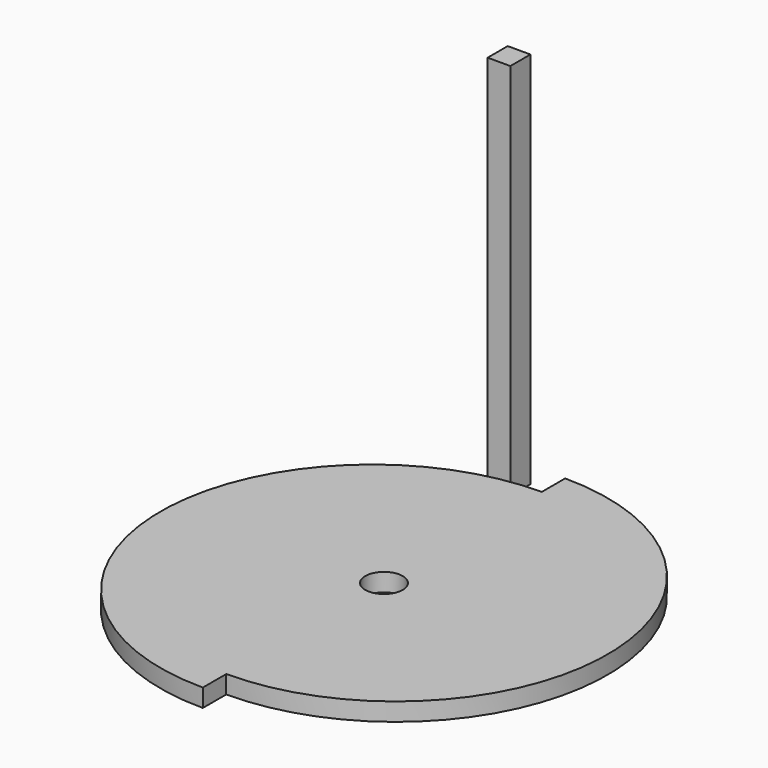
from build123d import *

# Parameters (mm, degrees)
F0_R     = 2.48
F1_DEPTH = 2.38
F0_W     = 3
F0_H     = 3.317181
F2_DEPTH = 50


with BuildPart() as f1:
    # F0 (on Top) → F1 (new body)
    with BuildSketch(Plane.XY):
        with BuildLine():
            ThreePointArc((0, -26.064767), (18.430573, -18.430573), (26.064767, 0))
            ThreePointArc((26.064767, 0), (18.430573, 18.430573), (0, 26.064767))
            ThreePointArc((0, 26.064767), (-26.064767, 0), (0, -26.064767))
        make_face()
        Circle(F0_R, mode=Mode.SUBTRACT)
        with BuildLine():
            ThreePointArc((0, -26.064767), (-26.064767, 0), (0, 26.064767))
            ThreePointArc((0, 26.064767), (-28, -1.935233), (0, -29.935233))
            Line((0, -29.935233), (0, -26.064767))
        make_face()
        with BuildLine():
            ThreePointArc((0, 26.064767), (18.430573, 18.430573), (26.064767, 0))
            ThreePointArc((26.064767, 0), (18.430573, -18.430573), (0, -26.064767))
            ThreePointArc((0, -26.064767), (28, 1.935233), (0, 29.935233))
            Line((0, 29.935233), (0, 26.064767))
        make_face()
    extrude(amount=F1_DEPTH)


with BuildPart() as f2:
    # F0 (on Top) → F2 (new body)
    with BuildSketch(Plane.XY):
        with Locations((-6.352668, 28.600418)):
            Rectangle(F0_W, F0_H)
    extrude(amount=F2_DEPTH)


solid = Compound([f1.part, f2.part])
